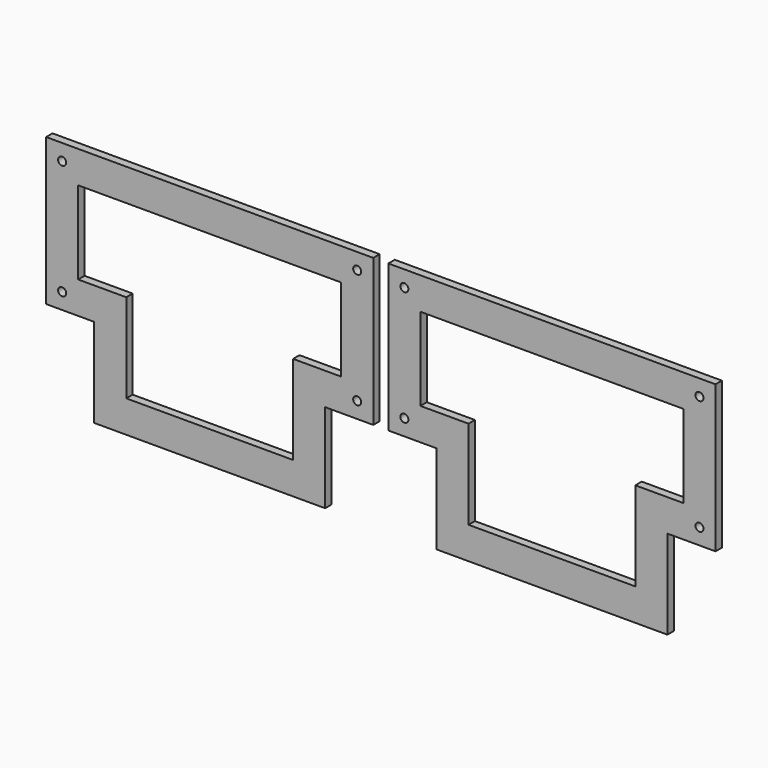
from build123d import *

# Parameters (mm, degrees)
F0_R     = 1.25
F1_DEPTH = 2.5


with BuildPart() as f1:
    # F0 (on Front) → F1 (new body)
    with BuildSketch(Plane.XZ):
        Polygon((-36, -8.764741), (-36, -36.514741), (36, -36.514741), (36, -8.764741), (51, -8.764741), (51, 37.084315), (-51, 37.084315), (-51, -8.764741), align=None)
        with Locations((-46, -3.764741)):
            Circle(F0_R, mode=Mode.SUBTRACT)
        Polygon((26, -26.514741), (-26, -26.514741), (-26, 1.235259), (-41, 1.235259), (-41, 27.084315), (41, 27.084315), (41, 1.235259), (26, 1.235259), align=None, mode=Mode.SUBTRACT)
        with Locations((46, -3.764741)):
            Circle(F0_R, mode=Mode.SUBTRACT)
        with Locations((-46, 32.084315)):
            Circle(F0_R, mode=Mode.SUBTRACT)
        with Locations((46, 32.084315)):
            Circle(F0_R, mode=Mode.SUBTRACT)
        Polygon((-157.7, -8.764741), (-142.7, -8.764741), (-142.7, -36.514741), (-70.7, -36.514741), (-70.7, -8.764741), (-55.7, -8.764741), (-55.7, 37.084315), (-157.7, 37.084315), align=None)
        with Locations((-152.7, -3.764741)):
            Circle(F0_R, mode=Mode.SUBTRACT)
        Polygon((-132.7, -26.514741), (-132.7, 1.235259), (-147.7, 1.235259), (-147.7, 27.084315), (-65.7, 27.084315), (-65.7, 1.235259), (-80.7, 1.235259), (-80.7, -26.514741), align=None, mode=Mode.SUBTRACT)
        with Locations((-60.7, -3.764741)):
            Circle(F0_R, mode=Mode.SUBTRACT)
        with Locations((-152.7, 32.084315)):
            Circle(F0_R, mode=Mode.SUBTRACT)
        with Locations((-60.7, 32.084315)):
            Circle(F0_R, mode=Mode.SUBTRACT)
    extrude(amount=F1_DEPTH)


solid = f1.part
